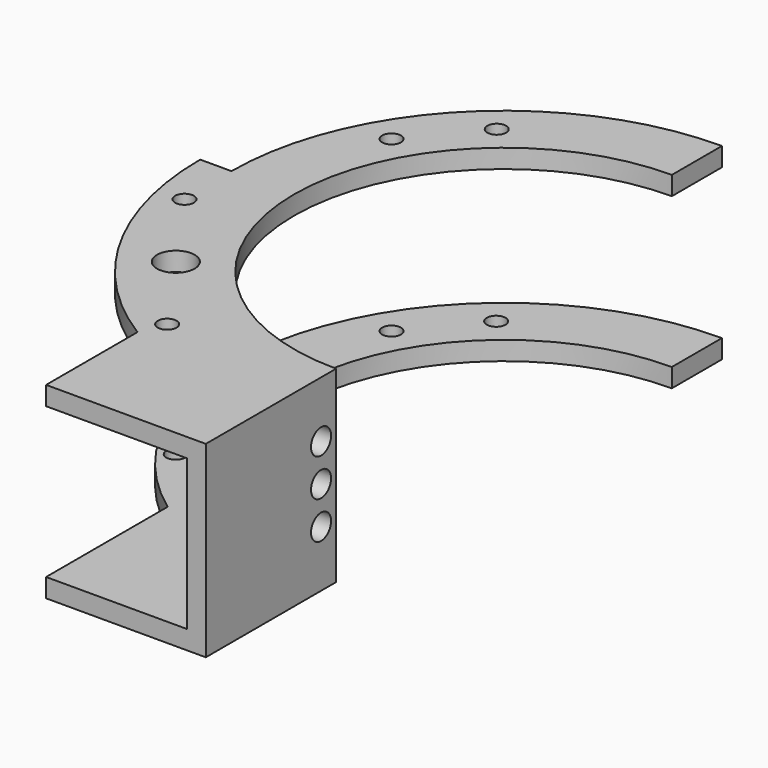
from build123d import *

# Parameters (mm, degrees)
PAD_DEPTH       = 3
SKETCH001_W     = 3
SKETCH001_H     = 26
PAD001_DEPTH    = 24
SKETCH002_R     = 2
POCKET_DEPTH    = 3
SKETCH003_R     = 1.5
SKETCH003_R_2   = 3
PAD002_DEPTH    = 3
SKETCH004_R     = 1.5
POCKET001_DEPTH = 3
SKETCH005_R     = 1.5
POCKET002_DEPTH = 30.001


with BuildPart() as part:
    # Sketch → Pad (new body)
    with BuildSketch(Plane.XY):
        with BuildLine():
            ThreePointArc((33.5, 33.5), (0, 0), (33.5, -33.5))
            Line((33.5, -33.5), (33.5, -59.5))
            Line((33.5, -59.5), (8, -59.5))
            Line((8, -59.5), (8, -35.24202))
            ThreePointArc((33.5, 43.5), (-7.884042, 13.401905), (8, -35.24202))
            Line((33.5, 33.5), (33.5, 43.5))
        make_face()
    extrude(amount=PAD_DEPTH)

    # Sketch001 → Pad001 (new body)
    with BuildSketch(Plane.XY.offset(3)):
        with Locations((32, -46.5)):
            Rectangle(SKETCH001_W, SKETCH001_H)
    extrude(amount=PAD001_DEPTH)

    # Sketch002 → Pocket (cut)
    with BuildSketch(Plane.YZ.offset(33.5)):
        with Locations((-36.5, 21)):
            Circle(SKETCH002_R)
        with Locations((-36.5, 15)):
            Circle(SKETCH002_R)
        with Locations((-36.5, 9)):
            Circle(SKETCH002_R)
    extrude(amount=-POCKET_DEPTH, mode=Mode.SUBTRACT)

    # Sketch003 → Pad002 (new body)
    with BuildSketch(Plane.XY.offset(27)):
        with BuildLine():
            Line((33.5, 43.5), (33.5, 33.5))
            ThreePointArc((33.5, 33.5), (0, 0), (33.5, -33.5))
            Line((33.5, -33.5), (33.5, -59.5))
            Line((33.5, -59.5), (8, -59.5))
            Line((8, -41.255303), (8, -59.5))
            ThreePointArc((-15, 0), (-8.861539, -23.616731), (8, -41.255303))
            Line((-15, 0), (-10, 0))
            ThreePointArc((33.5, 43.5), (2.740855, 30.759145), (-10, 0))
        make_face()
        with Locations((8.752677, 29.492711)):
            Circle(SKETCH003_R, mode=Mode.SUBTRACT)
        with Locations((-0.136024, -23.4334)):
            Circle(SKETCH003_R_2, mode=Mode.SUBTRACT)
        with Locations((-9.829466, -9.58973)):
            Circle(SKETCH003_R, mode=Mode.SUBTRACT)
        with Locations((9.557418, -37.27707)):
            Circle(SKETCH003_R, mode=Mode.SUBTRACT)
    extrude(amount=PAD002_DEPTH)

    # Sketch004 → Pocket001 (cut)
    with BuildSketch(Plane(origin=(0, 0, 0), x_dir=(1, 0, 0), z_dir=(0, 0, -1))):
        with Locations((8.68646, -29.464001)):
            Circle(SKETCH004_R)
        with Locations((-0.085234, 23.516634)):
            Circle(SKETCH004_R)
    extrude(amount=-POCKET001_DEPTH, mode=Mode.SUBTRACT)

    # Sketch005 → Pocket002 (cut, through all)
    with BuildSketch(Plane.XY.offset(30)):
        with Locations((0.158022, 19.25)):
            Circle(SKETCH005_R)
    extrude(amount=-POCKET002_DEPTH, mode=Mode.SUBTRACT)


solid = part.part
